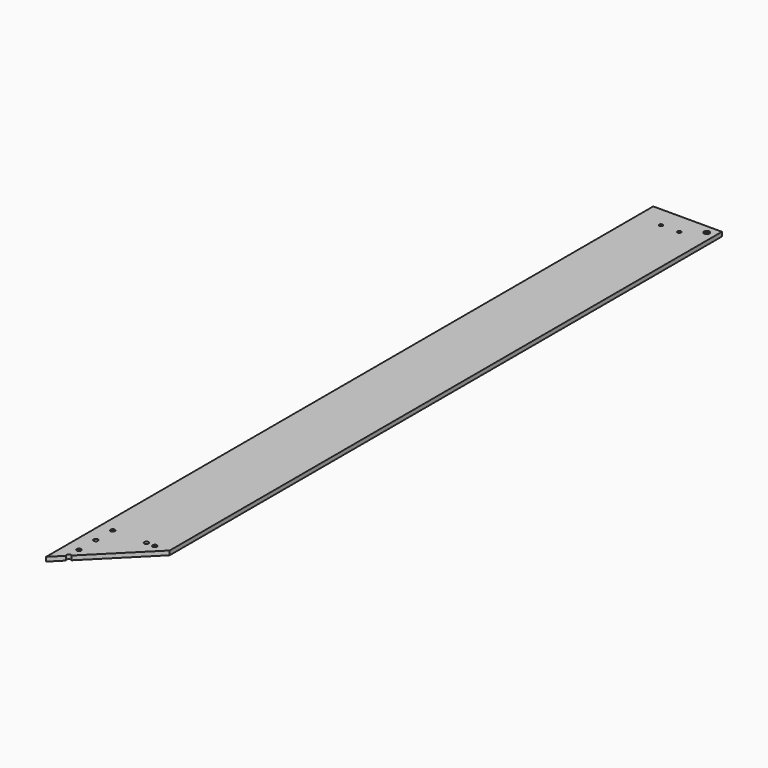
from build123d import *

# Parameters (mm, degrees)
F1_DEPTH        = 6.35
F3_D            = 6.5278
F3_CSINK_D      = 13.4874
F3_CSINK_ANGLE  = 82
F4_R            = 6.35
F5_DEPTH        = 3.683
F7_D            = 5.1054
F7_CSINK_D      = 10.4394
F7_CSINK_ANGLE  = 82
F9_D            = 6.7564
F10_R           = 3.175
F11_DEPTH       = 6.351
F12_W           = 1.8288
F12_H           = 1041.4
F13_DEPTH       = 6.35
F15_DEPTH       = 25.4
F17_D           = 8.2042
F17_CSINK_D     = 16.6624
F17_CSINK_ANGLE = 82


with BuildPart() as f1:
    # F0 (on Top) → F1 (new body)
    with BuildSketch(Plane.XY):
        Polygon((-101.6, -101.6), (0, 0), (0, 1041.4), (-101.6, 1041.4), align=None)
    extrude(amount=F1_DEPTH)

    # F3 (through all)
    with Locations(Plane(origin=(0, 0, 0), x_dir=(1, 0, 0), z_dir=(0, 0, -1))):
        with Locations((-82.55, 63.5), (-82.55, 0), (-19.05, 0)):
            CounterSinkHole(F3_D / 2, F3_CSINK_D / 2, counter_sink_angle=F3_CSINK_ANGLE)

    # F4 (on face) → F5 (cut)
    with BuildSketch(Plane(origin=(0, 0, 0), x_dir=(1, 0, 0), z_dir=(0, 0, -1))):
        with Locations((-50.8, -50.8)):
            Circle(F4_R)
        with Locations((-50.8, -812.8)):
            Circle(F4_R)
    extrude(amount=-F5_DEPTH, mode=Mode.SUBTRACT)

    # F7 (through all)
    with Locations(Plane(origin=(0, 0, 0), x_dir=(1, 0, 0), z_dir=(0, 0, -1))):
        with Locations((-37.0078, -1009.65), (-64.5922, -1009.65)):
            CounterSinkHole(F7_D / 2, F7_CSINK_D / 2, counter_sink_angle=F7_CSINK_ANGLE)

    # F9 (through all)
    with Locations(Plane(origin=(0, 0, 0), x_dir=(1, 0, 0), z_dir=(0, 0, -1))):
        with Locations((-82.55, 82.55)):
            Hole(F9_D / 2)

    # F10 (on face) → F11 (cut, through all)
    with BuildSketch(Plane.XY.offset(6.35)):
        with Locations((-82.55, -31.75)):
            Circle(F10_R)
        with Locations((-31.75, 0)):
            Circle(F10_R)
    extrude(amount=-F11_DEPTH, mode=Mode.SUBTRACT)

    # F12 (on Top) → F13 (join)
    with BuildSketch(Plane.XY):
        with Locations((0.9144, 520.7)):
            Rectangle(F12_W, F12_H)
    extrude(amount=F13_DEPTH)

    # F14 (on face) → F15 (cut)
    with BuildSketch(Plane.XY.offset(6.35)):
        Polygon((1.8288, 1.8288), (0, 0), (1.8288, 0), align=None)
    extrude(amount=-F15_DEPTH, mode=Mode.SUBTRACT)

    # F17 (through all)
    with Locations(Plane(origin=(0, 0, 0), x_dir=(1, 0, 0), z_dir=(0, 0, -1))):
        with Locations((-10.8712, -1028.7)):
            CounterSinkHole(F17_D / 2, F17_CSINK_D / 2, counter_sink_angle=F17_CSINK_ANGLE)


solid = f1.part
